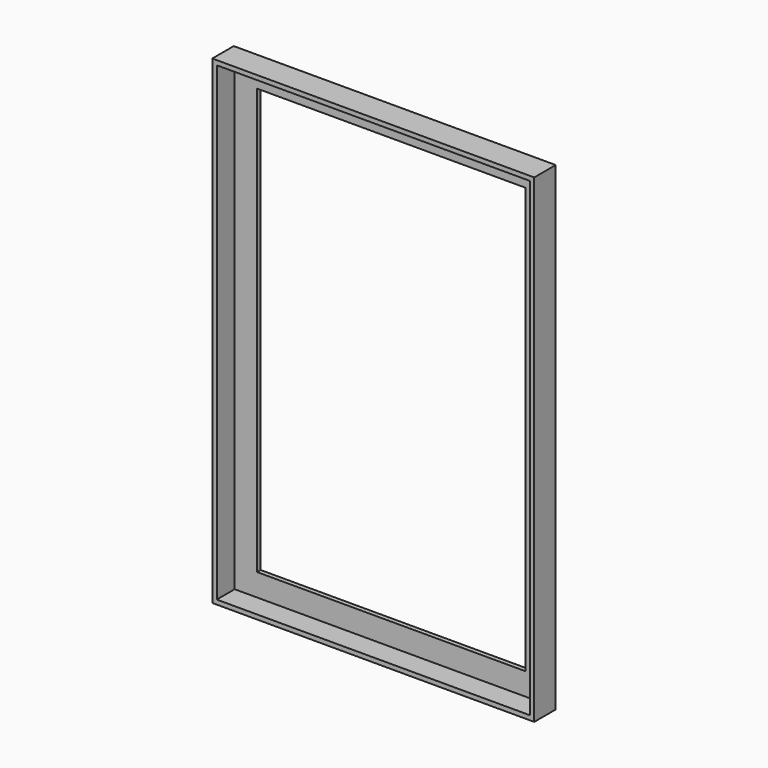
from build123d import *

# Parameters (mm, degrees)
F0_W     = 143.8
F0_H     = 214.1
F1_DEPTH = 10
F2_DEPTH = 2


with BuildPart() as f1:
    # F0 (on Front) → F1 (new body)
    with BuildSketch(Plane.XZ):
        with Locations((71.9, 107.05)):
            Rectangle(F0_W, F0_H)
        Polygon((2, 149.1), (2, 212.1), (78.8, 212.1), (141.8, 212.1), (141.8, 149.1), (141.8, 2), (78.8, 2), (2, 2), align=None, mode=Mode.SUBTRACT)
    extrude(amount=F1_DEPTH)

    # F0 (on Front) → F2 (join)
    with BuildSketch(Plane.XZ):
        with Locations((71.9, 107.05)):
            Rectangle(F0_W, F0_H)
        Polygon((2, 149.1), (2, 212.1), (78.8, 212.1), (141.8, 212.1), (141.8, 149.1), (141.8, 2), (78.8, 2), (2, 2), align=None, mode=Mode.SUBTRACT)
        Polygon((78.8, 212.1), (2, 212.1), (2, 149.1), (12, 149.1), (12, 202.1), (78.8, 202.1), align=None)
        Polygon((141.8, 212.1), (78.8, 212.1), (78.8, 202.1), (131.8, 202.1), (131.8, 149.1), (141.8, 149.1), align=None)
        Polygon((12, 149.1), (2, 149.1), (2, 2), (78.8, 2), (78.8, 12), (12, 12), align=None)
        Polygon((141.8, 2), (141.8, 149.1), (131.8, 149.1), (131.8, 12), (78.8, 12), (78.8, 2), align=None)
    extrude(amount=-F2_DEPTH)


solid = f1.part
